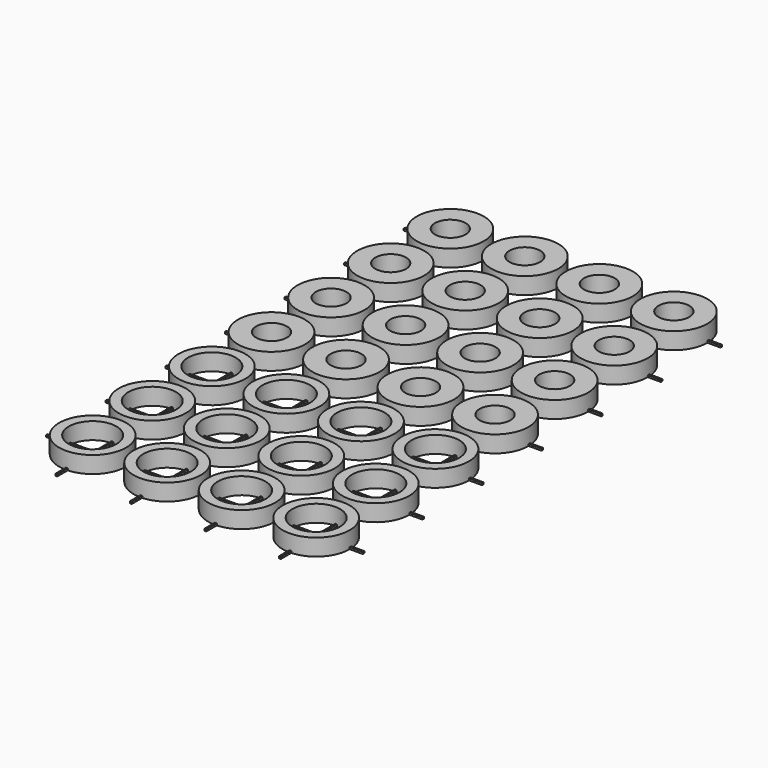
from build123d import *

# Parameters (mm, degrees)
CYLINDER_R        = 3.6
CYLINDER_DEPTH    = 1.8
SKETCH_R          = 2.56
POCKET_DEPTH      = 5
CYLINDER001_R     = 3.6
CYLINDER001_DEPTH = 1.8
SKETCH001_R       = 2.56
POCKET001_DEPTH   = 5
CYLINDER002_R     = 3.6
CYLINDER002_DEPTH = 1.8
SKETCH002_R       = 2.56
POCKET002_DEPTH   = 5
CYLINDER003_R     = 3.6
CYLINDER003_DEPTH = 1.8
SKETCH003_R       = 2.56
POCKET003_DEPTH   = 5
CYLINDER004_R     = 3.6
CYLINDER004_DEPTH = 1.8
SKETCH004_R       = 2.56
POCKET004_DEPTH   = 5
CYLINDER005_R     = 3.6
CYLINDER005_DEPTH = 1.8
SKETCH005_R       = 2.56
POCKET005_DEPTH   = 5
CYLINDER006_R     = 3.6
CYLINDER006_DEPTH = 1.8
SKETCH006_R       = 2.56
POCKET006_DEPTH   = 5
CYLINDER007_R     = 3.6
CYLINDER007_DEPTH = 1.8
SKETCH007_R       = 2.56
POCKET007_DEPTH   = 5
CYLINDER008_R     = 3.6
CYLINDER008_DEPTH = 1.8
SKETCH008_R       = 2.56
POCKET008_DEPTH   = 5
CYLINDER009_R     = 3.6
CYLINDER009_DEPTH = 1.8
SKETCH009_R       = 2.56
POCKET009_DEPTH   = 5
CYLINDER010_R     = 3.6
CYLINDER010_DEPTH = 1.8
SKETCH010_R       = 2.56
POCKET010_DEPTH   = 5
CYLINDER011_R     = 3.6
CYLINDER011_DEPTH = 1.8
SKETCH011_R       = 2.56
POCKET011_DEPTH   = 5
CYLINDER012_R     = 3.6
CYLINDER012_DEPTH = 1.8
SKETCH012_R       = 1.65
POCKET012_DEPTH   = 5
CYLINDER013_R     = 3.6
CYLINDER013_DEPTH = 1.8
SKETCH013_R       = 1.65
POCKET013_DEPTH   = 5
CYLINDER014_R     = 3.6
CYLINDER014_DEPTH = 1.8
SKETCH014_R       = 1.65
POCKET014_DEPTH   = 5
CYLINDER015_R     = 3.6
CYLINDER015_DEPTH = 1.8
SKETCH015_R       = 1.65
POCKET015_DEPTH   = 5
CYLINDER016_R     = 3.6
CYLINDER016_DEPTH = 1.8
SKETCH016_R       = 1.65
POCKET016_DEPTH   = 5
CYLINDER017_R     = 3.6
CYLINDER017_DEPTH = 1.8
SKETCH017_R       = 1.65
POCKET017_DEPTH   = 5
CYLINDER018_R     = 3.6
CYLINDER018_DEPTH = 1.8
SKETCH018_R       = 1.65
POCKET018_DEPTH   = 5
CYLINDER019_R     = 3.6
CYLINDER019_DEPTH = 1.8
SKETCH019_R       = 1.65
POCKET019_DEPTH   = 5
CYLINDER020_R     = 3.6
CYLINDER020_DEPTH = 1.8
SKETCH020_R       = 1.65
POCKET020_DEPTH   = 5
CYLINDER021_R     = 3.6
CYLINDER021_DEPTH = 1.8
SKETCH021_R       = 1.65
POCKET021_DEPTH   = 5
CYLINDER022_R     = 3.6
CYLINDER022_DEPTH = 1.8
SKETCH022_R       = 1.65
POCKET022_DEPTH   = 5
CYLINDER023_R     = 3.6
CYLINDER023_DEPTH = 1.8
SKETCH023_R       = 1.65
POCKET023_DEPTH   = 5
CYLINDER024_R     = 3.6
CYLINDER024_DEPTH = 1.8
SKETCH024_R       = 1.65
POCKET024_DEPTH   = 5
CYLINDER025_R     = 3.6
CYLINDER025_DEPTH = 1.8
SKETCH025_R       = 1.65
POCKET025_DEPTH   = 5
CYLINDER026_R     = 3.6
CYLINDER026_DEPTH = 1.8
SKETCH026_R       = 1.65
POCKET026_DEPTH   = 5
CYLINDER027_R     = 3.6
CYLINDER027_DEPTH = 1.8
SKETCH027_R       = 1.65
POCKET027_DEPTH   = 5
BOX_W             = 0.2
BOX_H             = 58
BOX_DEPTH         = 0.2
BOX001_W          = 0.2
BOX001_H          = 58
BOX001_DEPTH      = 0.2
BOX002_W          = 0.2
BOX002_H          = 58
BOX002_DEPTH      = 0.2
BOX003_W          = 0.2
BOX003_H          = 58
BOX003_DEPTH      = 0.2
BOX004_W          = 34
BOX004_H          = 0.2
BOX004_DEPTH      = 0.2
BOX005_W          = 34
BOX005_H          = 0.2
BOX005_DEPTH      = 0.2
BOX006_W          = 34
BOX006_H          = 0.2
BOX006_DEPTH      = 0.2
BOX007_W          = 34
BOX007_H          = 0.2
BOX007_DEPTH      = 0.2
BOX008_W          = 34
BOX008_H          = 0.2
BOX008_DEPTH      = 0.2
BOX009_W          = 34
BOX009_H          = 0.2
BOX009_DEPTH      = 0.2
BOX010_W          = 34
BOX010_H          = 0.2
BOX010_DEPTH      = 0.2


with BuildPart() as pocket:
    # Cylinder → Cylinder (new body)
    with BuildSketch(Plane.XY):
        Circle(CYLINDER_R)
    extrude(amount=CYLINDER_DEPTH)

    # Sketch → Pocket (cut)
    with BuildSketch(Plane.XY.offset(1.8)):
        Circle(SKETCH_R)
    extrude(amount=-POCKET_DEPTH, mode=Mode.SUBTRACT)


with BuildPart() as pocket001:
    # Cylinder001 → Cylinder001 (new body)
    with BuildSketch(Plane(origin=(8, 8, 0), x_dir=(1, 0, 0), z_dir=(0, 0, 1))):
        Circle(CYLINDER001_R)
    extrude(amount=CYLINDER001_DEPTH)

    # Sketch001 → Pocket001 (cut)
    with BuildSketch(Plane(origin=(8, 8, 1.8), x_dir=(1, 0, 0), z_dir=(0, 0, 1))):
        Circle(SKETCH001_R)
    extrude(amount=-POCKET001_DEPTH, mode=Mode.SUBTRACT)


with BuildPart() as pocket002:
    # Cylinder002 → Cylinder002 (new body)
    with BuildSketch(Plane(origin=(8, 0, 0), x_dir=(1, 0, 0), z_dir=(0, 0, 1))):
        Circle(CYLINDER002_R)
    extrude(amount=CYLINDER002_DEPTH)

    # Sketch002 → Pocket002 (cut)
    with BuildSketch(Plane(origin=(8, 0, 1.8), x_dir=(1, 0, 0), z_dir=(0, 0, 1))):
        Circle(SKETCH002_R)
    extrude(amount=-POCKET002_DEPTH, mode=Mode.SUBTRACT)


with BuildPart() as pocket003:
    # Cylinder003 → Cylinder003 (new body)
    with BuildSketch(Plane(origin=(0, 8, 0), x_dir=(1, 0, 0), z_dir=(0, 0, 1))):
        Circle(CYLINDER003_R)
    extrude(amount=CYLINDER003_DEPTH)

    # Sketch003 → Pocket003 (cut)
    with BuildSketch(Plane(origin=(0, 8, 1.8), x_dir=(1, 0, 0), z_dir=(0, 0, 1))):
        Circle(SKETCH003_R)
    extrude(amount=-POCKET003_DEPTH, mode=Mode.SUBTRACT)


with BuildPart() as pocket004:
    # Cylinder004 → Cylinder004 (new body)
    with BuildSketch(Plane(origin=(0, 16, 0), x_dir=(1, 0, 0), z_dir=(0, 0, 1))):
        Circle(CYLINDER004_R)
    extrude(amount=CYLINDER004_DEPTH)

    # Sketch004 → Pocket004 (cut)
    with BuildSketch(Plane(origin=(0, 16, 1.8), x_dir=(1, 0, 0), z_dir=(0, 0, 1))):
        Circle(SKETCH004_R)
    extrude(amount=-POCKET004_DEPTH, mode=Mode.SUBTRACT)


with BuildPart() as pocket005:
    # Cylinder005 → Cylinder005 (new body)
    with BuildSketch(Plane(origin=(8, 16, 0), x_dir=(1, 0, 0), z_dir=(0, 0, 1))):
        Circle(CYLINDER005_R)
    extrude(amount=CYLINDER005_DEPTH)

    # Sketch005 → Pocket005 (cut)
    with BuildSketch(Plane(origin=(8, 16, 1.8), x_dir=(1, 0, 0), z_dir=(0, 0, 1))):
        Circle(SKETCH005_R)
    extrude(amount=-POCKET005_DEPTH, mode=Mode.SUBTRACT)


with BuildPart() as pocket006:
    # Cylinder006 → Cylinder006 (new body)
    with BuildSketch(Plane(origin=(16, 8, 0), x_dir=(1, 0, 0), z_dir=(0, 0, 1))):
        Circle(CYLINDER006_R)
    extrude(amount=CYLINDER006_DEPTH)

    # Sketch006 → Pocket006 (cut)
    with BuildSketch(Plane(origin=(16, 8, 1.8), x_dir=(1, 0, 0), z_dir=(0, 0, 1))):
        Circle(SKETCH006_R)
    extrude(amount=-POCKET006_DEPTH, mode=Mode.SUBTRACT)


with BuildPart() as pocket007:
    # Cylinder007 → Cylinder007 (new body)
    with BuildSketch(Plane(origin=(16, 0, 0), x_dir=(1, 0, 0), z_dir=(0, 0, 1))):
        Circle(CYLINDER007_R)
    extrude(amount=CYLINDER007_DEPTH)

    # Sketch007 → Pocket007 (cut)
    with BuildSketch(Plane(origin=(16, 0, 1.8), x_dir=(1, 0, 0), z_dir=(0, 0, 1))):
        Circle(SKETCH007_R)
    extrude(amount=-POCKET007_DEPTH, mode=Mode.SUBTRACT)


with BuildPart() as pocket008:
    # Cylinder008 → Cylinder008 (new body)
    with BuildSketch(Plane(origin=(16, 16, 0), x_dir=(1, 0, 0), z_dir=(0, 0, 1))):
        Circle(CYLINDER008_R)
    extrude(amount=CYLINDER008_DEPTH)

    # Sketch008 → Pocket008 (cut)
    with BuildSketch(Plane(origin=(16, 16, 1.8), x_dir=(1, 0, 0), z_dir=(0, 0, 1))):
        Circle(SKETCH008_R)
    extrude(amount=-POCKET008_DEPTH, mode=Mode.SUBTRACT)


with BuildPart() as pocket009:
    # Cylinder009 → Cylinder009 (new body)
    with BuildSketch(Plane(origin=(24, 0, 0), x_dir=(1, 0, 0), z_dir=(0, 0, 1))):
        Circle(CYLINDER009_R)
    extrude(amount=CYLINDER009_DEPTH)

    # Sketch009 → Pocket009 (cut)
    with BuildSketch(Plane(origin=(24, 0, 1.8), x_dir=(1, 0, 0), z_dir=(0, 0, 1))):
        Circle(SKETCH009_R)
    extrude(amount=-POCKET009_DEPTH, mode=Mode.SUBTRACT)


with BuildPart() as pocket010:
    # Cylinder010 → Cylinder010 (new body)
    with BuildSketch(Plane(origin=(24, 8, 0), x_dir=(1, 0, 0), z_dir=(0, 0, 1))):
        Circle(CYLINDER010_R)
    extrude(amount=CYLINDER010_DEPTH)

    # Sketch010 → Pocket010 (cut)
    with BuildSketch(Plane(origin=(24, 8, 1.8), x_dir=(1, 0, 0), z_dir=(0, 0, 1))):
        Circle(SKETCH010_R)
    extrude(amount=-POCKET010_DEPTH, mode=Mode.SUBTRACT)


with BuildPart() as pocket011:
    # Cylinder011 → Cylinder011 (new body)
    with BuildSketch(Plane(origin=(24, 16, 0), x_dir=(1, 0, 0), z_dir=(0, 0, 1))):
        Circle(CYLINDER011_R)
    extrude(amount=CYLINDER011_DEPTH)

    # Sketch011 → Pocket011 (cut)
    with BuildSketch(Plane(origin=(24, 16, 1.8), x_dir=(1, 0, 0), z_dir=(0, 0, 1))):
        Circle(SKETCH011_R)
    extrude(amount=-POCKET011_DEPTH, mode=Mode.SUBTRACT)


with BuildPart() as motorpocket:
    # Cylinder012 → Cylinder012 (new body)
    with BuildSketch(Plane(origin=(0, 24, 0), x_dir=(1, 0, 0), z_dir=(0, 0, 1))):
        Circle(CYLINDER012_R)
    extrude(amount=CYLINDER012_DEPTH)

    # Sketch012 → Pocket012 (cut)
    with BuildSketch(Plane(origin=(0, 24, 1.8), x_dir=(1, 0, 0), z_dir=(0, 0, 1))):
        Circle(SKETCH012_R)
    extrude(amount=-POCKET012_DEPTH, mode=Mode.SUBTRACT)


with BuildPart() as motorpocket001:
    # Cylinder013 → Cylinder013 (new body)
    with BuildSketch(Plane(origin=(8, 24, 0), x_dir=(1, 0, 0), z_dir=(0, 0, 1))):
        Circle(CYLINDER013_R)
    extrude(amount=CYLINDER013_DEPTH)

    # Sketch013 → Pocket013 (cut)
    with BuildSketch(Plane(origin=(8, 24, 1.8), x_dir=(1, 0, 0), z_dir=(0, 0, 1))):
        Circle(SKETCH013_R)
    extrude(amount=-POCKET013_DEPTH, mode=Mode.SUBTRACT)


with BuildPart() as motorpocket002:
    # Cylinder014 → Cylinder014 (new body)
    with BuildSketch(Plane(origin=(16, 24, 0), x_dir=(1, 0, 0), z_dir=(0, 0, 1))):
        Circle(CYLINDER014_R)
    extrude(amount=CYLINDER014_DEPTH)

    # Sketch014 → Pocket014 (cut)
    with BuildSketch(Plane(origin=(16, 24, 1.8), x_dir=(1, 0, 0), z_dir=(0, 0, 1))):
        Circle(SKETCH014_R)
    extrude(amount=-POCKET014_DEPTH, mode=Mode.SUBTRACT)


with BuildPart() as motorpocket003:
    # Cylinder015 → Cylinder015 (new body)
    with BuildSketch(Plane(origin=(24, 24, 0), x_dir=(1, 0, 0), z_dir=(0, 0, 1))):
        Circle(CYLINDER015_R)
    extrude(amount=CYLINDER015_DEPTH)

    # Sketch015 → Pocket015 (cut)
    with BuildSketch(Plane(origin=(24, 24, 1.8), x_dir=(1, 0, 0), z_dir=(0, 0, 1))):
        Circle(SKETCH015_R)
    extrude(amount=-POCKET015_DEPTH, mode=Mode.SUBTRACT)


with BuildPart() as motorpocket004:
    # Cylinder016 → Cylinder016 (new body)
    with BuildSketch(Plane(origin=(24, 32, 0), x_dir=(1, 0, 0), z_dir=(0, 0, 1))):
        Circle(CYLINDER016_R)
    extrude(amount=CYLINDER016_DEPTH)

    # Sketch016 → Pocket016 (cut)
    with BuildSketch(Plane(origin=(24, 32, 1.8), x_dir=(1, 0, 0), z_dir=(0, 0, 1))):
        Circle(SKETCH016_R)
    extrude(amount=-POCKET016_DEPTH, mode=Mode.SUBTRACT)


with BuildPart() as motorpocket005:
    # Cylinder017 → Cylinder017 (new body)
    with BuildSketch(Plane(origin=(16, 32, 0), x_dir=(1, 0, 0), z_dir=(0, 0, 1))):
        Circle(CYLINDER017_R)
    extrude(amount=CYLINDER017_DEPTH)

    # Sketch017 → Pocket017 (cut)
    with BuildSketch(Plane(origin=(16, 32, 1.8), x_dir=(1, 0, 0), z_dir=(0, 0, 1))):
        Circle(SKETCH017_R)
    extrude(amount=-POCKET017_DEPTH, mode=Mode.SUBTRACT)


with BuildPart() as motorpocket006:
    # Cylinder018 → Cylinder018 (new body)
    with BuildSketch(Plane(origin=(0, 32, 0), x_dir=(1, 0, 0), z_dir=(0, 0, 1))):
        Circle(CYLINDER018_R)
    extrude(amount=CYLINDER018_DEPTH)

    # Sketch018 → Pocket018 (cut)
    with BuildSketch(Plane(origin=(0, 32, 1.8), x_dir=(1, 0, 0), z_dir=(0, 0, 1))):
        Circle(SKETCH018_R)
    extrude(amount=-POCKET018_DEPTH, mode=Mode.SUBTRACT)


with BuildPart() as motorpocket007:
    # Cylinder019 → Cylinder019 (new body)
    with BuildSketch(Plane(origin=(8, 32, 0), x_dir=(1, 0, 0), z_dir=(0, 0, 1))):
        Circle(CYLINDER019_R)
    extrude(amount=CYLINDER019_DEPTH)

    # Sketch019 → Pocket019 (cut)
    with BuildSketch(Plane(origin=(8, 32, 1.8), x_dir=(1, 0, 0), z_dir=(0, 0, 1))):
        Circle(SKETCH019_R)
    extrude(amount=-POCKET019_DEPTH, mode=Mode.SUBTRACT)


with BuildPart() as motorpocket008:
    # Cylinder020 → Cylinder020 (new body)
    with BuildSketch(Plane(origin=(24, 40, 0), x_dir=(1, 0, 0), z_dir=(0, 0, 1))):
        Circle(CYLINDER020_R)
    extrude(amount=CYLINDER020_DEPTH)

    # Sketch020 → Pocket020 (cut)
    with BuildSketch(Plane(origin=(24, 40, 1.8), x_dir=(1, 0, 0), z_dir=(0, 0, 1))):
        Circle(SKETCH020_R)
    extrude(amount=-POCKET020_DEPTH, mode=Mode.SUBTRACT)


with BuildPart() as motorpocket009:
    # Cylinder021 → Cylinder021 (new body)
    with BuildSketch(Plane(origin=(16, 40, 0), x_dir=(1, 0, 0), z_dir=(0, 0, 1))):
        Circle(CYLINDER021_R)
    extrude(amount=CYLINDER021_DEPTH)

    # Sketch021 → Pocket021 (cut)
    with BuildSketch(Plane(origin=(16, 40, 1.8), x_dir=(1, 0, 0), z_dir=(0, 0, 1))):
        Circle(SKETCH021_R)
    extrude(amount=-POCKET021_DEPTH, mode=Mode.SUBTRACT)


with BuildPart() as motorpocket010:
    # Cylinder022 → Cylinder022 (new body)
    with BuildSketch(Plane(origin=(0, 40, 0), x_dir=(1, 0, 0), z_dir=(0, 0, 1))):
        Circle(CYLINDER022_R)
    extrude(amount=CYLINDER022_DEPTH)

    # Sketch022 → Pocket022 (cut)
    with BuildSketch(Plane(origin=(0, 40, 1.8), x_dir=(1, 0, 0), z_dir=(0, 0, 1))):
        Circle(SKETCH022_R)
    extrude(amount=-POCKET022_DEPTH, mode=Mode.SUBTRACT)


with BuildPart() as motorpocket011:
    # Cylinder023 → Cylinder023 (new body)
    with BuildSketch(Plane(origin=(8, 40, 0), x_dir=(1, 0, 0), z_dir=(0, 0, 1))):
        Circle(CYLINDER023_R)
    extrude(amount=CYLINDER023_DEPTH)

    # Sketch023 → Pocket023 (cut)
    with BuildSketch(Plane(origin=(8, 40, 1.8), x_dir=(1, 0, 0), z_dir=(0, 0, 1))):
        Circle(SKETCH023_R)
    extrude(amount=-POCKET023_DEPTH, mode=Mode.SUBTRACT)


with BuildPart() as motorpocket012:
    # Cylinder024 → Cylinder024 (new body)
    with BuildSketch(Plane(origin=(24, 48, 0), x_dir=(1, 0, 0), z_dir=(0, 0, 1))):
        Circle(CYLINDER024_R)
    extrude(amount=CYLINDER024_DEPTH)

    # Sketch024 → Pocket024 (cut)
    with BuildSketch(Plane(origin=(24, 48, 1.8), x_dir=(1, 0, 0), z_dir=(0, 0, 1))):
        Circle(SKETCH024_R)
    extrude(amount=-POCKET024_DEPTH, mode=Mode.SUBTRACT)


with BuildPart() as motorpocket013:
    # Cylinder025 → Cylinder025 (new body)
    with BuildSketch(Plane(origin=(16, 48, 0), x_dir=(1, 0, 0), z_dir=(0, 0, 1))):
        Circle(CYLINDER025_R)
    extrude(amount=CYLINDER025_DEPTH)

    # Sketch025 → Pocket025 (cut)
    with BuildSketch(Plane(origin=(16, 48, 1.8), x_dir=(1, 0, 0), z_dir=(0, 0, 1))):
        Circle(SKETCH025_R)
    extrude(amount=-POCKET025_DEPTH, mode=Mode.SUBTRACT)


with BuildPart() as motorpocket014:
    # Cylinder026 → Cylinder026 (new body)
    with BuildSketch(Plane(origin=(0, 48, 0), x_dir=(1, 0, 0), z_dir=(0, 0, 1))):
        Circle(CYLINDER026_R)
    extrude(amount=CYLINDER026_DEPTH)

    # Sketch026 → Pocket026 (cut)
    with BuildSketch(Plane(origin=(0, 48, 1.8), x_dir=(1, 0, 0), z_dir=(0, 0, 1))):
        Circle(SKETCH026_R)
    extrude(amount=-POCKET026_DEPTH, mode=Mode.SUBTRACT)


with BuildPart() as motorpocket015:
    # Cylinder027 → Cylinder027 (new body)
    with BuildSketch(Plane(origin=(8, 48, 0), x_dir=(1, 0, 0), z_dir=(0, 0, 1))):
        Circle(CYLINDER027_R)
    extrude(amount=CYLINDER027_DEPTH)

    # Sketch027 → Pocket027 (cut)
    with BuildSketch(Plane(origin=(8, 48, 1.8), x_dir=(1, 0, 0), z_dir=(0, 0, 1))):
        Circle(SKETCH027_R)
    extrude(amount=-POCKET027_DEPTH, mode=Mode.SUBTRACT)


with BuildPart() as raft:
    # Box → Box (new body)
    with BuildSketch(Plane(origin=(0, -5, 0), x_dir=(1, 0, 0), z_dir=(0, 0, 1))):
        with Locations((0.1, 29)):
            Rectangle(BOX_W, BOX_H)
    extrude(amount=BOX_DEPTH)


with BuildPart() as raft001:
    # Box001 → Box001 (new body)
    with BuildSketch(Plane(origin=(8, -5, 0), x_dir=(1, 0, 0), z_dir=(0, 0, 1))):
        with Locations((0.1, 29)):
            Rectangle(BOX001_W, BOX001_H)
    extrude(amount=BOX001_DEPTH)


with BuildPart() as raft002:
    # Box002 → Box002 (new body)
    with BuildSketch(Plane(origin=(16, -5, 0), x_dir=(1, 0, 0), z_dir=(0, 0, 1))):
        with Locations((0.1, 29)):
            Rectangle(BOX002_W, BOX002_H)
    extrude(amount=BOX002_DEPTH)


with BuildPart() as raft003:
    # Box003 → Box003 (new body)
    with BuildSketch(Plane(origin=(24, -5, 0), x_dir=(1, 0, 0), z_dir=(0, 0, 1))):
        with Locations((0.1, 29)):
            Rectangle(BOX003_W, BOX003_H)
    extrude(amount=BOX003_DEPTH)


with BuildPart() as raft004:
    # Box004 → Box004 (new body)
    with BuildSketch(Plane(origin=(-5, 0, 0), x_dir=(1, 0, 0), z_dir=(0, 0, 1))):
        with Locations((17, 0.1)):
            Rectangle(BOX004_W, BOX004_H)
    extrude(amount=BOX004_DEPTH)


with BuildPart() as raft005:
    # Box005 → Box005 (new body)
    with BuildSketch(Plane(origin=(-5, 8, 0), x_dir=(1, 0, 0), z_dir=(0, 0, 1))):
        with Locations((17, 0.1)):
            Rectangle(BOX005_W, BOX005_H)
    extrude(amount=BOX005_DEPTH)


with BuildPart() as raft006:
    # Box006 → Box006 (new body)
    with BuildSketch(Plane(origin=(-5, 16, 0), x_dir=(1, 0, 0), z_dir=(0, 0, 1))):
        with Locations((17, 0.1)):
            Rectangle(BOX006_W, BOX006_H)
    extrude(amount=BOX006_DEPTH)


with BuildPart() as raft007:
    # Box007 → Box007 (new body)
    with BuildSketch(Plane(origin=(-5, 24, 0), x_dir=(1, 0, 0), z_dir=(0, 0, 1))):
        with Locations((17, 0.1)):
            Rectangle(BOX007_W, BOX007_H)
    extrude(amount=BOX007_DEPTH)


with BuildPart() as raft008:
    # Box008 → Box008 (new body)
    with BuildSketch(Plane(origin=(-5, 32, 0), x_dir=(1, 0, 0), z_dir=(0, 0, 1))):
        with Locations((17, 0.1)):
            Rectangle(BOX008_W, BOX008_H)
    extrude(amount=BOX008_DEPTH)


with BuildPart() as raft009:
    # Box009 → Box009 (new body)
    with BuildSketch(Plane(origin=(-5, 40, 0), x_dir=(1, 0, 0), z_dir=(0, 0, 1))):
        with Locations((17, 0.1)):
            Rectangle(BOX009_W, BOX009_H)
    extrude(amount=BOX009_DEPTH)


with BuildPart() as raft010:
    # Box010 → Box010 (new body)
    with BuildSketch(Plane(origin=(-5, 48, 0), x_dir=(1, 0, 0), z_dir=(0, 0, 1))):
        with Locations((17, 0.1)):
            Rectangle(BOX010_W, BOX010_H)
    extrude(amount=BOX010_DEPTH)


solid = Compound([pocket.part, pocket001.part, pocket002.part, pocket003.part, pocket004.part, pocket005.part, pocket006.part, pocket007.part, pocket008.part, pocket009.part, pocket010.part, pocket011.part, motorpocket.part, motorpocket001.part, motorpocket002.part, motorpocket003.part, motorpocket004.part, motorpocket005.part, motorpocket006.part, motorpocket007.part, motorpocket008.part, motorpocket009.part, motorpocket010.part, motorpocket011.part, motorpocket012.part, motorpocket013.part, motorpocket014.part, motorpocket015.part, raft.part, raft001.part, raft002.part, raft003.part, raft004.part, raft005.part, raft006.part, raft007.part, raft008.part, raft009.part, raft010.part])
